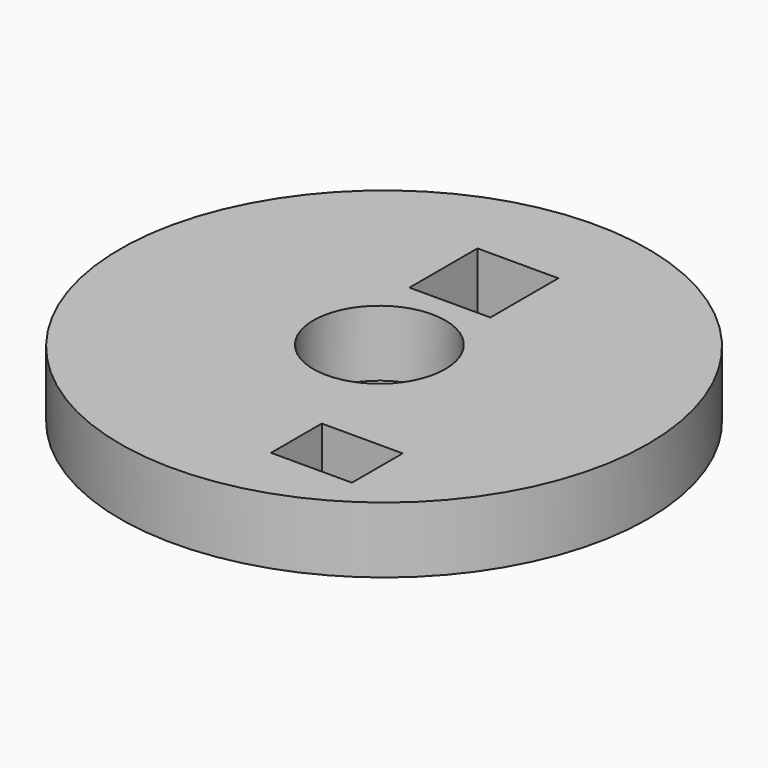
from build123d import *

# Parameters (mm, degrees)
F0_R     = 50.8
F0_R_2   = 12.7
F0_W     = 15.568451
F0_H     = 12.218274
F0_W_2   = 15.568449
F0_H_2   = 16.356724
F1_DEPTH = 12.7


with BuildPart() as f1:
    # F0 (on Top) → F1 (new body)
    with BuildSketch(Plane.XY):
        with Locations((0.908604, 0)):
            Circle(F0_R)
        Circle(F0_R_2, mode=Mode.SUBTRACT)
        with Locations((17.046467, -31.531036)):
            Rectangle(F0_W, F0_H, mode=Mode.SUBTRACT)
        with Locations((-0.295603, 25.520432)):
            Rectangle(F0_W_2, F0_H_2, mode=Mode.SUBTRACT)
    extrude(amount=F1_DEPTH)


solid = f1.part
